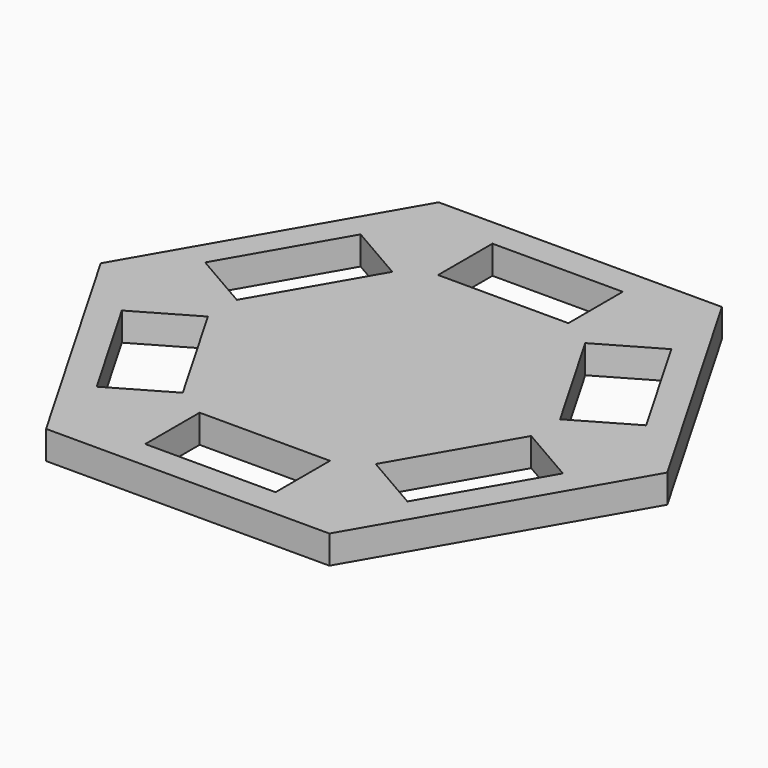
from build123d import *

# Parameters (mm, degrees)
PAD_DEPTH             = 5
SKETCH001_W           = 23
SKETCH001_H           = 12
POCKET_DEPTH          = 5
POLARPATTERN_COUNT    = 2
POLARPATTERN001_COUNT = 6


with BuildPart() as part:
    # Sketch → Pad (new body)
    with BuildSketch(Plane.XY):
        Polygon((-25, -43.30127), (25, -43.30127), (50, 0), (25, 43.30127), (-25, 43.30127), (-50, 0), align=None)
    extrude(amount=PAD_DEPTH)

    # Sketch001 (on Face8 of Pad) → Pocket (cut)
    with BuildSketch(Plane.XY.offset(5)):
        with Locations((0, 32.30127)):
            Rectangle(SKETCH001_W, SKETCH001_H)
    pocket = extrude(amount=-POCKET_DEPTH, mode=Mode.SUBTRACT)

    # PolarPattern: Pocket ×2 about axis
    polarpattern_axis = Axis((0, 0, 5), (0, 0, 1))
    for i in range(1, POLARPATTERN_COUNT):
        add(pocket.rotate(polarpattern_axis, i * 360 / POLARPATTERN_COUNT), mode=Mode.SUBTRACT)

    # PolarPattern001: Pocket ×6 about axis
    polarpattern001_axis = Axis((0, 0, 0), (0, 0, 1))
    for i in range(1, POLARPATTERN001_COUNT):
        add(pocket.rotate(polarpattern001_axis, i * 360 / POLARPATTERN001_COUNT), mode=Mode.SUBTRACT)


solid = part.part
